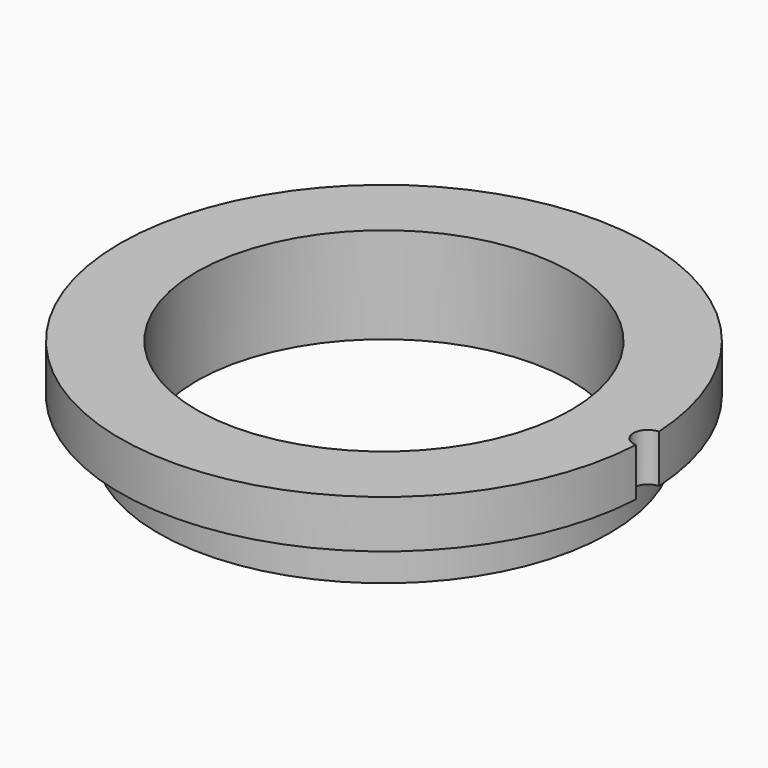
from build123d import *

# Parameters (mm, degrees)
SKETCH003_R       = 27.5
SKETCH003_R_2     = 19.5
PAD001_DEPTH      = 10
SKETCH004_R       = 1.5
POCKET004_DEPTH   = 10
SKETCH005_R       = 1.5
POCKET005_DEPTH   = 1.5
COPYSKETCH004_R   = 27.5
COPYSKETCH004_R_2 = 23.5
POCKET003_DEPTH   = 5


with BuildPart() as part:
    # Sketch003 → Pad001 (new body)
    with BuildSketch(Plane.XY):
        Circle(SKETCH003_R)
        Circle(SKETCH003_R_2, mode=Mode.SUBTRACT)
    extrude(amount=PAD001_DEPTH)

    # Sketch004 → Pocket004 (cut)
    with BuildSketch(Plane(origin=(27.5, 0, 0), x_dir=(1, 0, 0), z_dir=(0, 0, 1))):
        Circle(SKETCH004_R)
    extrude(amount=POCKET004_DEPTH, mode=Mode.SUBTRACT)

    # Sketch005 → Pocket005 (cut)
    with BuildSketch(Plane.YZ.offset(27.5)):
        Circle(SKETCH005_R)
    extrude(amount=-POCKET005_DEPTH, mode=Mode.SUBTRACT)

    # CopySketch004 → Pocket003 (cut)
    with BuildSketch(Plane.XY):
        Circle(COPYSKETCH004_R)
        Circle(COPYSKETCH004_R_2, mode=Mode.SUBTRACT)
    extrude(amount=POCKET003_DEPTH, mode=Mode.SUBTRACT)


solid = part.part
